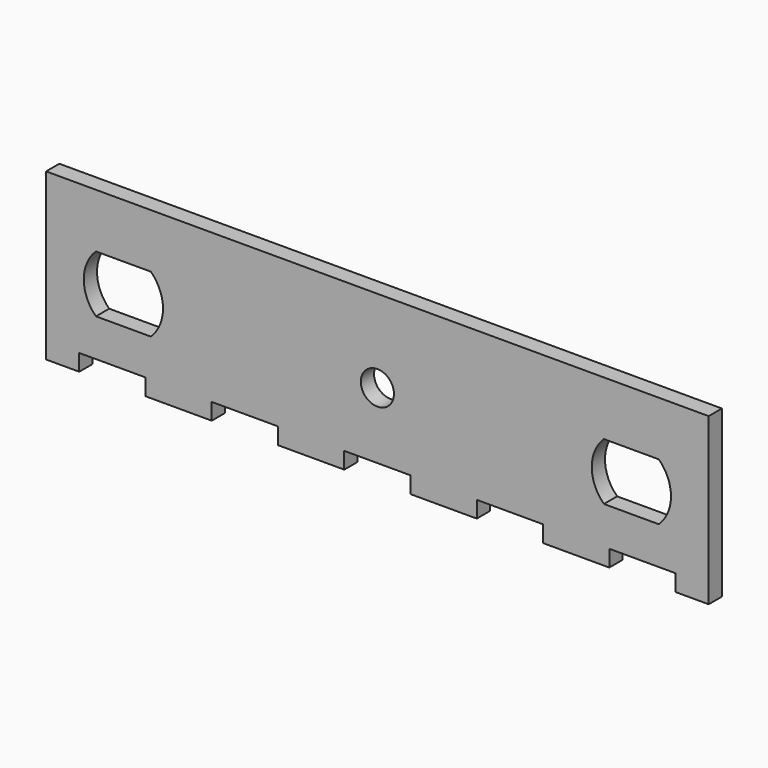
from build123d import *

# Parameters (mm, degrees)
F0_R     = 3
F1_DEPTH = 3


with BuildPart() as f1:
    # F0 (on Front) → F1 (new body)
    with BuildSketch(Plane.XZ):
        Polygon((-5.999114, -12), (6.000886, -12), (6.000886, -15), (18, -15), (18, -12), (30, -12), (30, -15), (42.000886, -15), (42.000886, -12), (54.000886, -12), (54.000886, -15), (60.000886, -15), (60.000886, 15), (-59.999114, 15), (-59.999114, -15), (-53.999114, -15), (-53.999114, -12), (-41.999114, -12), (-41.999114, -15), (-29.999114, -15), (-29.999114, -12), (-17.999114, -12), (-17.999114, -15), (-5.999114, -15), align=None)
        with BuildLine():
            ThreePointArc((-41.029205, 5.175), (-39.398367, 2.812608), (-38.824114, 0))
            ThreePointArc((-38.824114, 0), (-39.398367, -2.812608), (-41.029205, -5.175))
            ThreePointArc((-41.029205, -5.175), (-45.999114, -7.175), (-50.969023, -5.175))
            ThreePointArc((-50.969023, -5.175), (-53.174114, 0), (-50.969023, 5.175))
            ThreePointArc((-50.969023, 5.175), (-45.999114, 7.175), (-41.029205, 5.175))
        make_face(mode=Mode.SUBTRACT)
        Circle(F0_R, mode=Mode.SUBTRACT)
        with BuildLine():
            ThreePointArc((50.970795, 5.175), (52.601633, 2.812608), (53.175886, 0))
            ThreePointArc((53.175886, 0), (52.601633, -2.812608), (50.970795, -5.175))
            ThreePointArc((50.970795, -5.175), (46.000886, -7.175), (41.030977, -5.175))
            ThreePointArc((41.030977, -5.175), (38.825886, 0), (41.030977, 5.175))
            ThreePointArc((41.030977, 5.175), (46.000886, 7.175), (50.970795, 5.175))
        make_face(mode=Mode.SUBTRACT)
        with BuildLine():
            Line((41.030977, 5.175), (50.970795, 5.175))
            ThreePointArc((50.970795, 5.175), (46.000886, 7.175), (41.030977, 5.175))
        make_face()
        with BuildLine():
            ThreePointArc((41.030977, -5.175), (46.000886, -7.175), (50.970795, -5.175))
            Line((50.970795, -5.175), (41.030977, -5.175))
        make_face()
        with BuildLine():
            Line((-50.969023, 5.175), (-41.029205, 5.175))
            ThreePointArc((-41.029205, 5.175), (-45.999114, 7.175), (-50.969023, 5.175))
        make_face()
        with BuildLine():
            ThreePointArc((-50.969023, -5.175), (-45.999114, -7.175), (-41.029205, -5.175))
            Line((-41.029205, -5.175), (-50.969023, -5.175))
        make_face()
    extrude(amount=F1_DEPTH)


solid = f1.part
